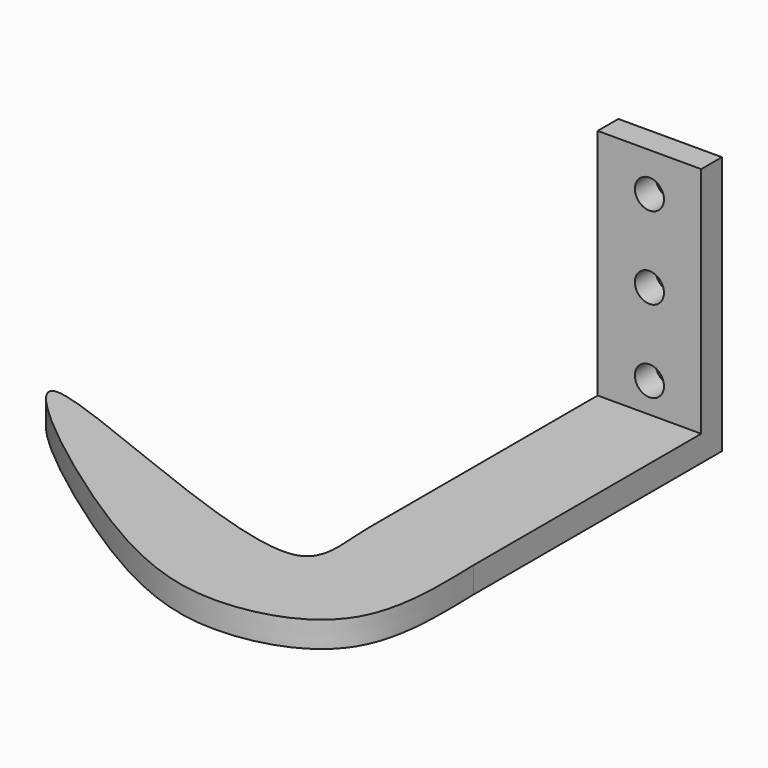
from build123d import *

# Parameters (mm, degrees)
F1_DEPTH = 4
F2_W     = 16
F2_H     = 4
F3_DEPTH = 36
F5_D     = 4.4958


with BuildPart() as f1:
    # F0 (on Top) → F1 (new body)
    with BuildSketch(Plane.XY):
        with BuildLine():
            Line((16, 0), (0, 0))
            Line((0, 0), (0, -48))
            add(Edge.make_bspline(
                [(0, -48), (0, -53.3210391668), (4.8711889229, -69.6833646877), (-77.073906224, -28.0516358471), (-22.0129098005, -70.9654817484), (-1.6960970309, -76.6764302241), (17.1395495186, -69.3299358484), (16.0927286534, -53.1164624078), (16, -48)],
                knots=[0, 0, 0, 0, 0.114472516, 0.3537766025, 0.5519725277, 0.7222759686, 0.85421271, 1, 1, 1, 1], degree=3))
            Line((16, -48), (16, 0))
        make_face()
    extrude(amount=F1_DEPTH)

    # F2 (on face) → F3 (join)
    with BuildSketch(Plane.XY.offset(4)):
        with Locations((8, -2)):
            Rectangle(F2_W, F2_H)
    extrude(amount=F3_DEPTH)

    # F5 (through all)
    with Locations(Plane(origin=(0, 0, 0), x_dir=(-1, 0, 0), z_dir=(0, 1, 0))):
        with Locations((-8, 21.3), (-8, 8.6), (-8, 34)):
            Hole(F5_D / 2)


solid = f1.part
